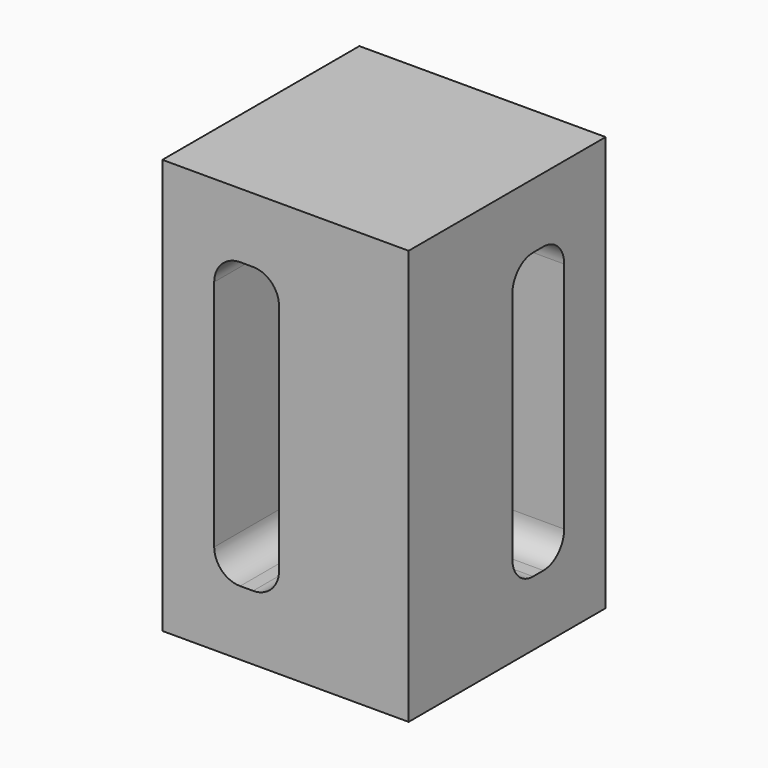
from build123d import *

# Parameters (mm, degrees)
F0_W     = 60.325
F0_H     = 60.325
F1_DEPTH = 101.6
F3_W     = 15.875
F3_H     = 69.85
F4_DEPTH = 30.48
F5_W     = 15.875
F5_H     = 69.85
F6_DEPTH = 30.48
F7_R     = 6.35


with BuildPart() as f1:
    # F0 (on Top) → F1 (new body)
    with BuildSketch(Plane.XY):
        Rectangle(F0_W, F0_H)
    extrude(amount=F1_DEPTH)

    # F3 (on face) → F4 (cut)
    with BuildSketch(Plane.XZ.offset(30.1625)):
        with Locations((-9.525, 50.8)):
            Rectangle(F3_W, F3_H)
    extrude(amount=-F4_DEPTH, mode=Mode.SUBTRACT)

    # F5 (on face) → F6 (cut)
    with BuildSketch(Plane.YZ.offset(30.1625)):
        with Locations((9.525, 50.8)):
            Rectangle(F5_W, F5_H)
    extrude(amount=-F6_DEPTH, mode=Mode.SUBTRACT)

    # F7
    f7_edges = [f1.edges().sort_by_distance(p)[0] for p in [
        (-17.4625, -14.9225, 85.725),
        (-1.5875, -14.9225, 85.725),
        (-17.4625, -14.9225, 15.875),
        (-1.5875, -14.9225, 15.875),
        (14.9225, 17.4625, 85.725),
        (14.9225, 1.5875, 85.725),
        (14.9225, 1.5875, 15.875),
        (14.9225, 17.4625, 15.875),
    ]]
    fillet(f7_edges, radius=F7_R)


solid = f1.part
